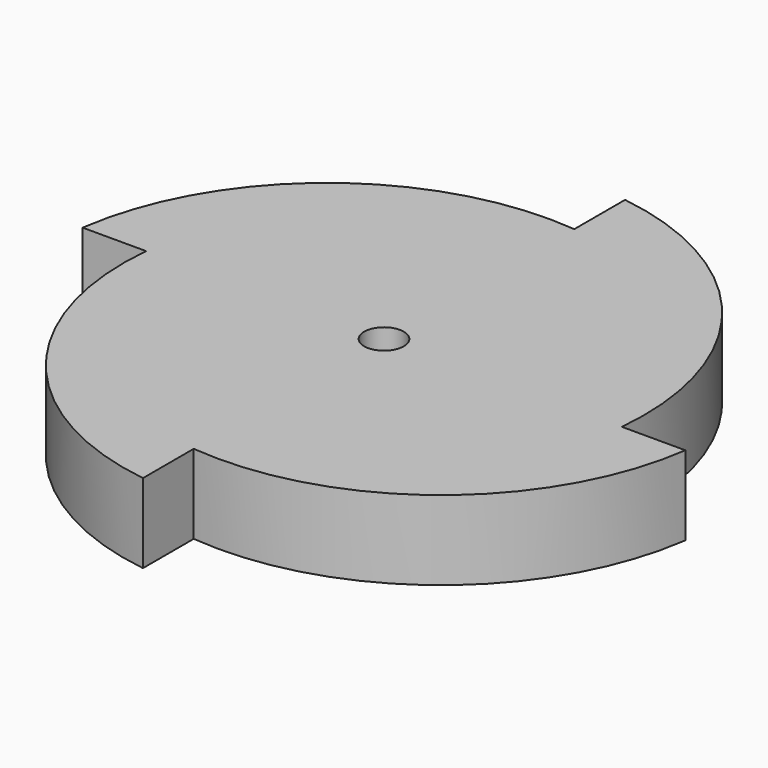
from build123d import *

# Parameters (mm, degrees)
F0_R     = 2.5
F1_DEPTH = 10


with BuildPart() as f1:
    # F0 (on Top) → F1 (new body)
    with BuildSketch(Plane.XY):
        with BuildLine():
            ThreePointArc((0, -30), (21.2132034356, -21.2132034356), (30, 0))
            ThreePointArc((30, 0), (21.2132034356, 21.2132034356), (0, 30))
            ThreePointArc((0, 30), (-21.2132034356, 21.2132034356), (-30, 0))
            ThreePointArc((-30, 0), (-21.2132034356, -21.2132034356), (0, -30))
        make_face()
        Circle(F0_R, mode=Mode.SUBTRACT)
        with BuildLine():
            Line((38, 0), (30, 0))
            ThreePointArc((30, 0), (21.2132034356, -21.2132034356), (0, -30))
            ThreePointArc((0, -30), (25.0239033553, -22.6302775834), (38, 0))
        make_face()
        with BuildLine():
            ThreePointArc((0, 30), (21.2132034356, 21.2132034356), (30, 0))
            ThreePointArc((30, 0), (22.6302775834, 25.0239033553), (0, 38))
            Line((0, 38), (0, 30))
        make_face()
        with BuildLine():
            ThreePointArc((-30, 0), (-21.2132034356, 21.2132034356), (0, 30))
            ThreePointArc((0, 30), (-25.0239033553, 22.6302775834), (-38, 0))
            Line((-38, 0), (-30, 0))
        make_face()
        with BuildLine():
            Line((0, -38), (0, -30))
            ThreePointArc((0, -30), (-21.2132034356, -21.2132034356), (-30, 0))
            ThreePointArc((-30, 0), (-22.6302775834, -25.0239033553), (0, -38))
        make_face()
    extrude(amount=F1_DEPTH)


solid = f1.part
